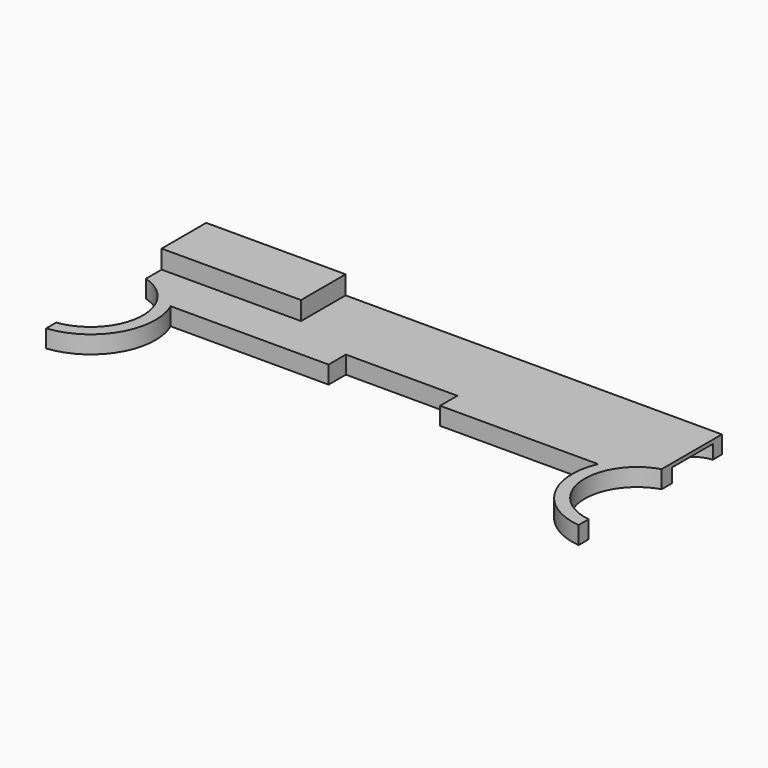
from build123d import *

# Parameters (mm, degrees)
F1_DEPTH = 3.2258
F2_W     = 25.4
F2_H     = 10.16
F3_DEPTH = 3.3782
F5_DEPTH = 2.54
F7_DEPTH = 3.2268


with BuildPart() as f1:
    # F0 (on Top) → F1 (new body)
    with BuildSketch(Plane.XY):
        with BuildLine():
            Line((46.99, 18.161), (-46.99, 18.161))
            Line((-46.99, 18.161), (-46.99, 4.441107))
            ThreePointArc((-46.99, 4.441107), (-40.364333, -6.077512), (-49.784, -14.189891))
            Line((-49.784, -14.189891), (-49.784, -16.475891))
            ThreePointArc((-49.784, -16.475891), (-39.920006, -11.161147), (-38.933262, 0))
            Line((-38.933262, 0), (-10.16, 0))
            Line((-10.16, 0), (-10.16, 3.937))
            Line((-10.16, 3.937), (10.16, 3.937))
            Line((10.16, 3.937), (10.16, 0))
            Line((10.16, 0), (38.933262, 0))
            ThreePointArc((38.933262, 0), (39.920006, -11.161147), (49.784, -16.475891))
            Line((49.784, -16.475891), (49.784, -14.189891))
            ThreePointArc((49.784, -14.189891), (40.364333, -6.077512), (46.99, 4.441107))
            Line((46.99, 4.441107), (46.99, 18.161))
        make_face()
    extrude(amount=F1_DEPTH)

    # F2 (on face) → F3 (join)
    with BuildSketch(Plane.XY.offset(3.2258)):
        with Locations((-34.29, 13.081)):
            Rectangle(F2_W, F2_H)
    extrude(amount=F3_DEPTH)

    # F4 (on face) → F5 (cut)
    with BuildSketch(Plane(origin=(0, 0, 0), x_dir=(1, 0, 0), z_dir=(0, 0, -1))):
        with BuildLine():
            Line((-46.99, -6.820624), (-46.99, -16.077196))
            ThreePointArc((-46.99, -16.077196), (-42.60338, -11.44891), (-46.99, -6.820624))
        make_face()
        with BuildLine():
            ThreePointArc((46.99, -6.820624), (42.60338, -11.44891), (46.99, -16.077196))
            Line((46.99, -16.077196), (46.99, -6.820624))
        make_face()
    extrude(amount=-F5_DEPTH, mode=Mode.SUBTRACT)

    # F6 (on face) → F7 (cut, through all)
    with BuildSketch(Plane.XY.offset(3.2258)):
        with BuildLine():
            Line((-48.518732, -16.407924), (-48.518732, -14.10548))
            ThreePointArc((-48.518732, -14.10548), (-49.149959, -14.168765), (-49.784, -14.189891))
            Line((-49.784, -14.189891), (-49.784, -16.475891))
            ThreePointArc((-49.784, -16.475891), (-49.150454, -16.458887), (-48.518732, -16.407924))
        make_face()
        with BuildLine():
            ThreePointArc((48.518732, -16.407924), (49.150454, -16.458887), (49.784, -16.475891))
            Line((49.784, -16.475891), (49.784, -14.189891))
            ThreePointArc((49.784, -14.189891), (49.149959, -14.168765), (48.518732, -14.10548))
            Line((48.518732, -14.10548), (48.518732, -16.407924))
        make_face()
    extrude(amount=-F7_DEPTH, mode=Mode.SUBTRACT)


solid = f1.part
